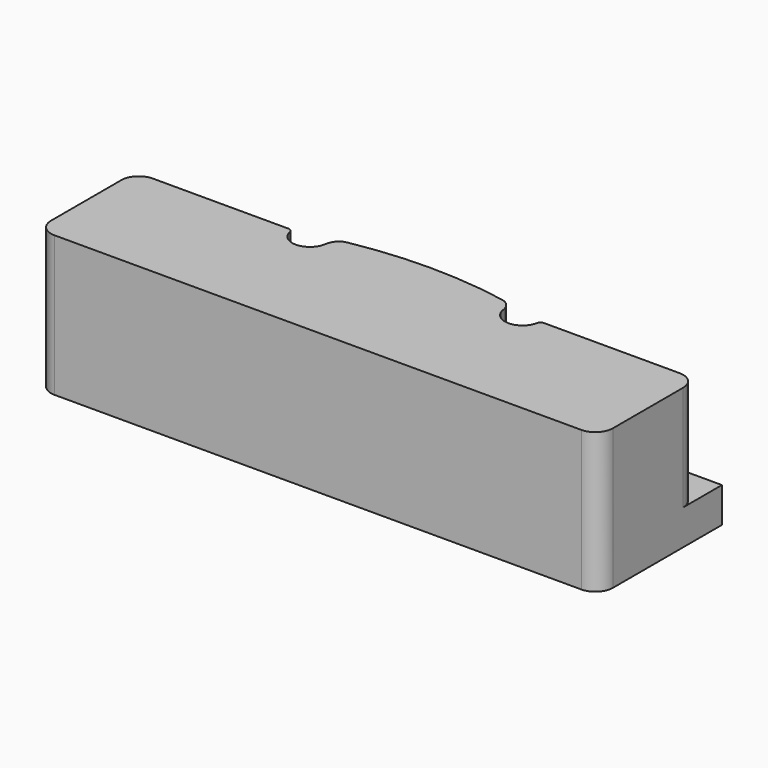
from build123d import *

# Parameters (mm, degrees)
F1_DEPTH = 19.05
F2_W     = 101.6
F2_H     = 27.813
F3_DEPTH = 6.35
F4_R     = 3.175


with BuildPart() as f1:
    # F0 (on Top) → F1 (new body)
    with BuildSketch(Plane.XY):
        with BuildLine():
            Line((-50.8, -12.7), (50.8, -12.7))
            Line((50.8, -12.7), (50.8, 9.525))
            Line((50.8, 9.525), (23.089258, 9.525))
            ThreePointArc((23.089258, 9.525), (22.605387, 9.351654), (22.341666, 8.910484))
            ThreePointArc((22.341666, 8.910484), (19.37408, 6.353422), (16.182151, 8.624264))
            Line((16.182151, 8.624264), (15.998242, 9.428533))
            ThreePointArc((15.998242, 9.428533), (15.288748, 10.725007), (13.977624, 11.407049))
            ThreePointArc((13.977624, 11.407049), (-0.000865, 12.7), (-13.979325, 11.406732))
            ThreePointArc((-13.979325, 11.406732), (-15.308897, 10.706393), (-16.009978, 9.377212))
            Line((-16.009978, 9.377212), (-16.182151, 8.624264))
            ThreePointArc((-16.182151, 8.624264), (-19.37408, 6.353422), (-22.341666, 8.910484))
            ThreePointArc((-22.341666, 8.910484), (-22.605387, 9.351654), (-23.089258, 9.525))
            Line((-23.089258, 9.525), (-50.8, 9.525))
            Line((-50.8, 9.525), (-50.8, -12.7))
        make_face()
    extrude(amount=F1_DEPTH)

    # F2 (on face) → F3 (join)
    with BuildSketch(Plane(origin=(0, 0, 0), x_dir=(1, 0, 0), z_dir=(0, 0, -1))):
        with Locations((0, -1.2065)):
            Rectangle(F2_W, F2_H)
    extrude(amount=F3_DEPTH)

    # F4
    f4_edges = [f1.edges().sort_by_distance(p)[0] for p in [
        (50.8, 9.525, 9.525),
        (-50.8, 9.525, 9.525),
        (-50.8, -12.7, 6.35),
        (50.8, -12.7, 6.35),
    ]]
    fillet(f4_edges, radius=F4_R)


solid = f1.part
